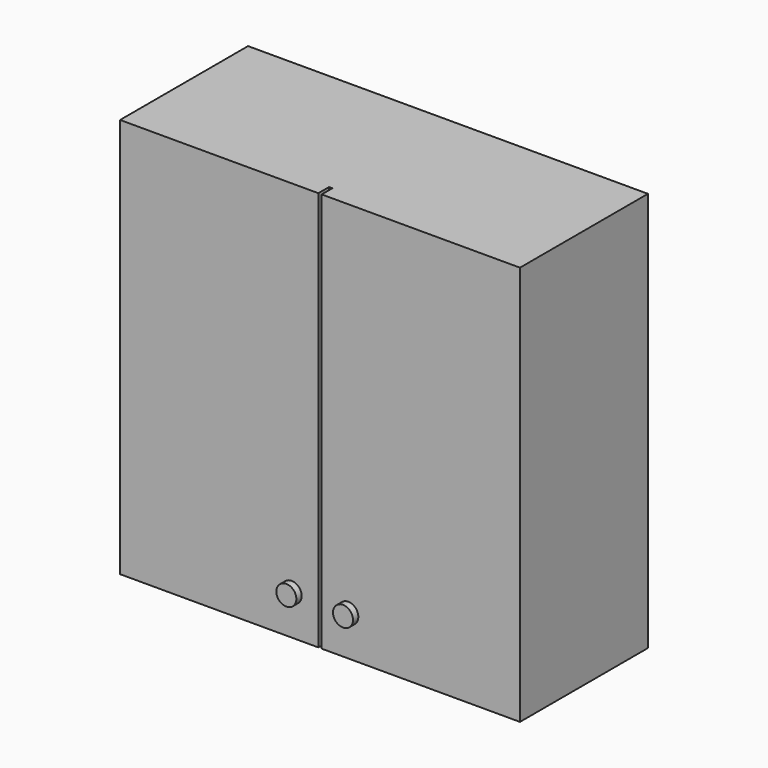
from build123d import *

# Parameters (mm, degrees)
F0_W     = 762
F0_H     = 762
F1_DEPTH = 304.8
F2_W     = 6.35
F2_H     = 762
F3_DEPTH = 25.4
F4_R     = 19.05
F5_DEPTH = 12.7
F6_W     = 584.2
F6_H     = 584.2
F7_DEPTH = 215.9


with BuildPart() as f1:
    # F0 (on Front) → F1 (new body)
    with BuildSketch(Plane.XZ):
        with Locations((381, 381)):
            Rectangle(F0_W, F0_H)
    extrude(amount=F1_DEPTH)

    # F2 (on face) → F3 (cut)
    with BuildSketch(Plane.XZ.offset(304.8)):
        with Locations((381, 381)):
            Rectangle(F2_W, F2_H)
    extrude(amount=-F3_DEPTH, mode=Mode.SUBTRACT)

    # F4 (on face) → F5 (join)
    with BuildSketch(Plane.XZ.offset(304.8)):
        with Locations((327.025, 76.2)):
            Circle(F4_R)
        with Locations((434.975, 76.2)):
            Circle(F4_R)
    extrude(amount=F5_DEPTH)

    # F6 (on face) → F7 (cut)
    with BuildSketch(Plane(origin=(0, 0, 0), x_dir=(-1, 0, 0), z_dir=(0, 1, 0))):
        with Locations((-381, 381)):
            Rectangle(F6_W, F6_H)
    extrude(amount=-F7_DEPTH, mode=Mode.SUBTRACT)


solid = f1.part
